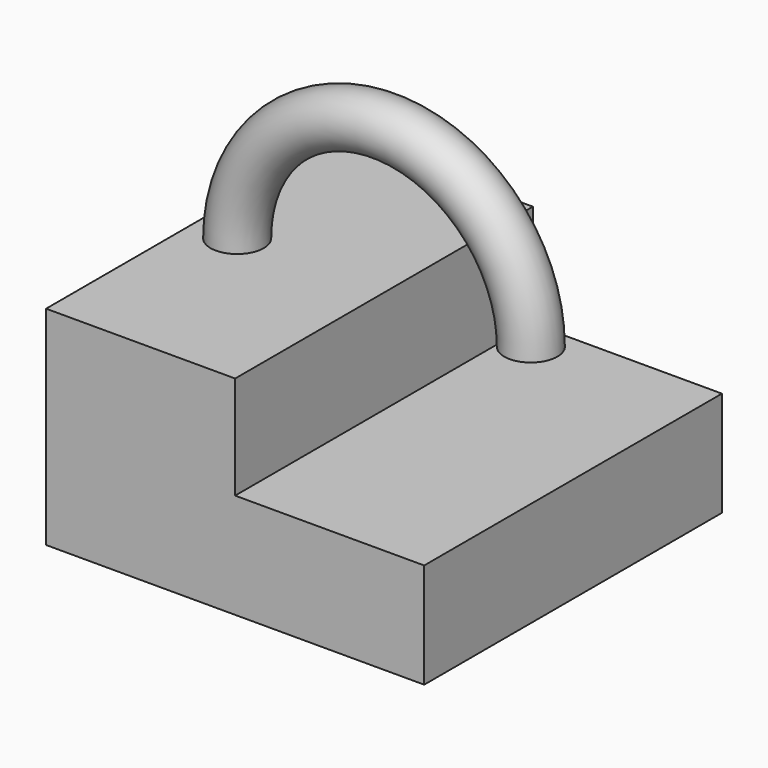
from build123d import *

# Parameters (mm, degrees)
F0_W     = 69.863096
F0_H     = 137.526572
F2_DEPTH = 76.89179
F1_R     = 9.824635
F4_DEPTH = 25.4
F5_DEPTH = 38.1


with BuildPart() as f2:
    # F0 (on Top) → F2 (new body)
    with BuildSketch(Plane.XY):
        with Locations((-34.931548, 0)):
            Rectangle(F0_W, F0_H)
        with Locations((34.931548, 0)):
            Rectangle(F0_W, F0_H)
    extrude(amount=-F2_DEPTH)

    # F1 (on Top) → F3 (revolve)
    with BuildSketch(Plane.XY):
        with Locations((54.264009, 0)):
            Circle(F1_R)
    revolve(axis=Axis((0, 0, 0), (0, -1, 0)))

    # F0 (on Top) → F4 (join)
    with BuildSketch(Plane.XY):
        with Locations((34.931548, 0)):
            Rectangle(F0_W, F0_H)
    extrude(amount=-F4_DEPTH)

    # F0 (on Top) → F5 (cut)
    with BuildSketch(Plane.XY):
        with Locations((34.931548, 0)):
            Rectangle(F0_W, F0_H)
    extrude(amount=-F5_DEPTH, mode=Mode.SUBTRACT)


solid = f2.part
